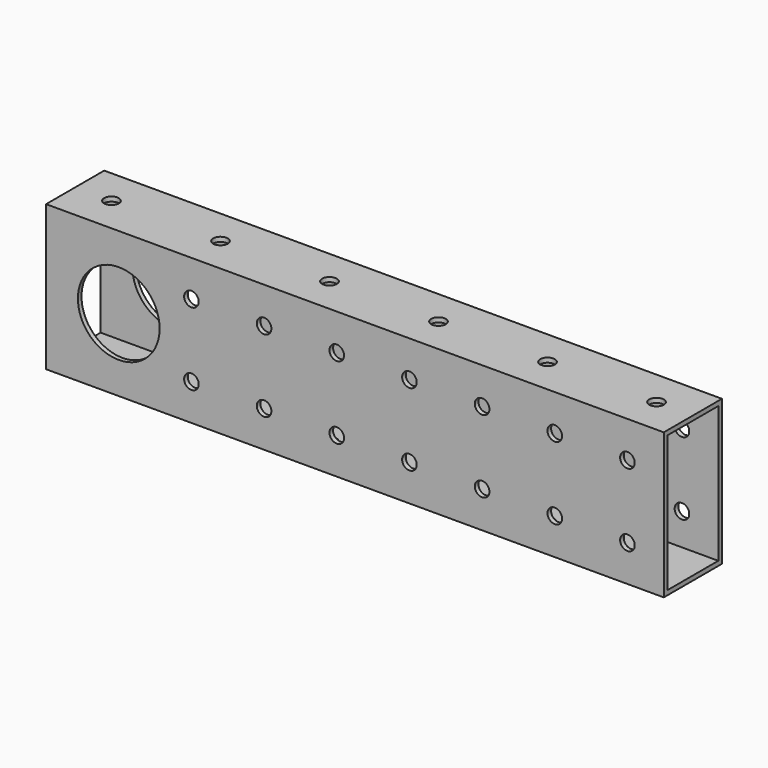
from build123d import *

# Parameters (mm, degrees)
F0_W     = 215.9
F0_H     = 50.8
F0_R     = 2.5527
F0_R_2   = 14.2875
F1_DEPTH = 25.4
F2_W     = 22.225
F2_H     = 47.625
F3_DEPTH = 215.901
F4_R     = 2.5527
F5_DEPTH = 50.801


with BuildPart() as f1:
    # F0 (on Front) → F1 (new body)
    with BuildSketch(Plane.XZ):
        Rectangle(F0_W, F0_H)
        with Locations((-57.15, -12.7)):
            Circle(F0_R, mode=Mode.SUBTRACT)
        with Locations((-31.75, -12.7)):
            Circle(F0_R, mode=Mode.SUBTRACT)
        with Locations((-6.35, -12.7)):
            Circle(F0_R, mode=Mode.SUBTRACT)
        with Locations((-82.55, 0)):
            Circle(F0_R_2, mode=Mode.SUBTRACT)
        with Locations((19.05, -12.7)):
            Circle(F0_R, mode=Mode.SUBTRACT)
        with Locations((44.45, -12.7)):
            Circle(F0_R, mode=Mode.SUBTRACT)
        with Locations((69.85, -12.7)):
            Circle(F0_R, mode=Mode.SUBTRACT)
        with Locations((95.25, -12.7)):
            Circle(F0_R, mode=Mode.SUBTRACT)
        with Locations((-57.15, 12.7)):
            Circle(F0_R, mode=Mode.SUBTRACT)
        with Locations((-31.75, 12.7)):
            Circle(F0_R, mode=Mode.SUBTRACT)
        with Locations((-6.35, 12.7)):
            Circle(F0_R, mode=Mode.SUBTRACT)
        with Locations((19.05, 12.7)):
            Circle(F0_R, mode=Mode.SUBTRACT)
        with Locations((44.45, 12.7)):
            Circle(F0_R, mode=Mode.SUBTRACT)
        with Locations((69.85, 12.7)):
            Circle(F0_R, mode=Mode.SUBTRACT)
        with Locations((95.25, 12.7)):
            Circle(F0_R, mode=Mode.SUBTRACT)
    extrude(amount=F1_DEPTH)

    # F2 (on face) → F3 (cut, through all)
    with BuildSketch(Plane(origin=(-107.95, 0, 0), x_dir=(0, -1, 0), z_dir=(-1, 0, 0))):
        with Locations((12.7, 0)):
            Rectangle(F2_W, F2_H)
    extrude(amount=-F3_DEPTH, mode=Mode.SUBTRACT)

    # F4 (on face) → F5 (cut, through all)
    with BuildSketch(Plane.XY.offset(25.4)):
        with Locations((-95.25, -12.7)):
            Circle(F4_R)
        with Locations((-57.15, -12.7)):
            Circle(F4_R)
        with Locations((-19.05, -12.7)):
            Circle(F4_R)
        with Locations((19.05, -12.7)):
            Circle(F4_R)
        with Locations((57.15, -12.7)):
            Circle(F4_R)
        with Locations((95.25, -12.7)):
            Circle(F4_R)
    extrude(amount=-F5_DEPTH, mode=Mode.SUBTRACT)


solid = f1.part
